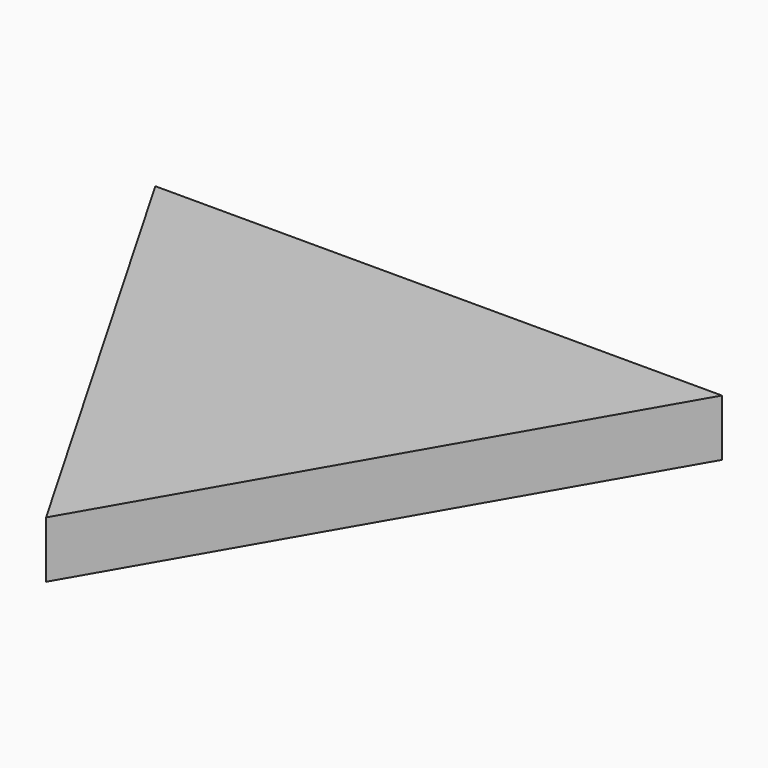
from build123d import *

# Parameters (mm, degrees)
F0_R     = 5.646681
F1_DEPTH = 2.54


with BuildPart() as f1:
    # F0 (on Top) → F1 (new body)
    with BuildSketch(Plane.XY):
        Polygon((12.7, 7.332348), (-12.7, 7.332348), (0, -14.664697), align=None)
        Circle(F0_R, mode=Mode.SUBTRACT)
        Circle(F0_R)
    extrude(amount=F1_DEPTH)


solid = f1.part
